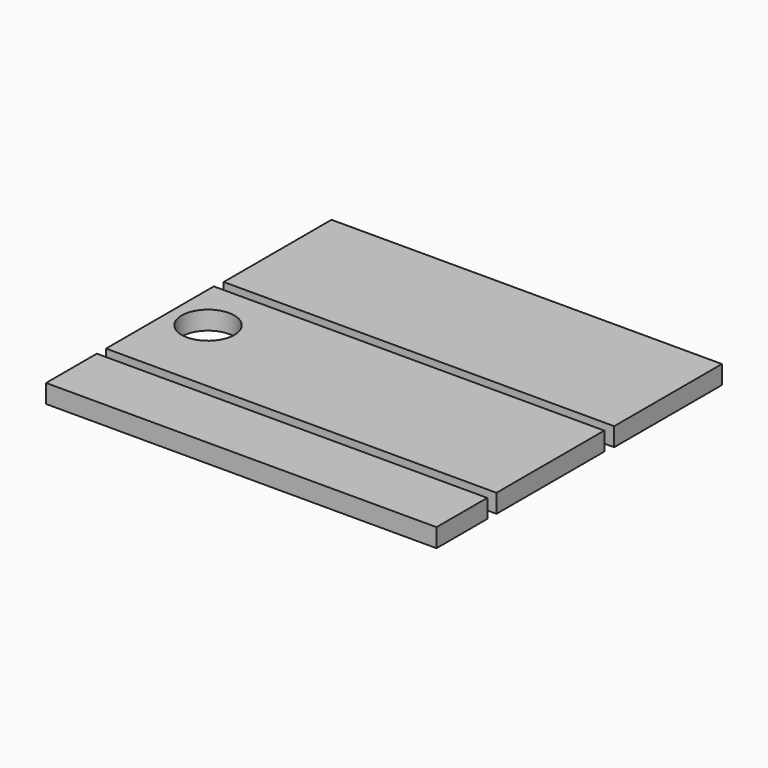
from build123d import *

# Parameters (mm, degrees)
F0_W     = 400
F0_H     = 138
F0_R     = 27.02178
F0_H_2   = 65
F1_DEPTH = 19


with BuildPart() as f1:
    # F0 (on Top) → F1 (new body)
    with BuildSketch(Plane.XY):
        with Locations((-127.881293, 105.967028)):
            Rectangle(F0_W, F0_H)
        with Locations((-129.310836, -42.9291)):
            Rectangle(F0_W, F0_H)
        with Locations((-290.909737, -29.337753)):
            Circle(F0_R, mode=Mode.SUBTRACT)
        with Locations((-129.559565, -155.924259)):
            Rectangle(F0_W, F0_H_2)
    extrude(amount=F1_DEPTH)


solid = f1.part
